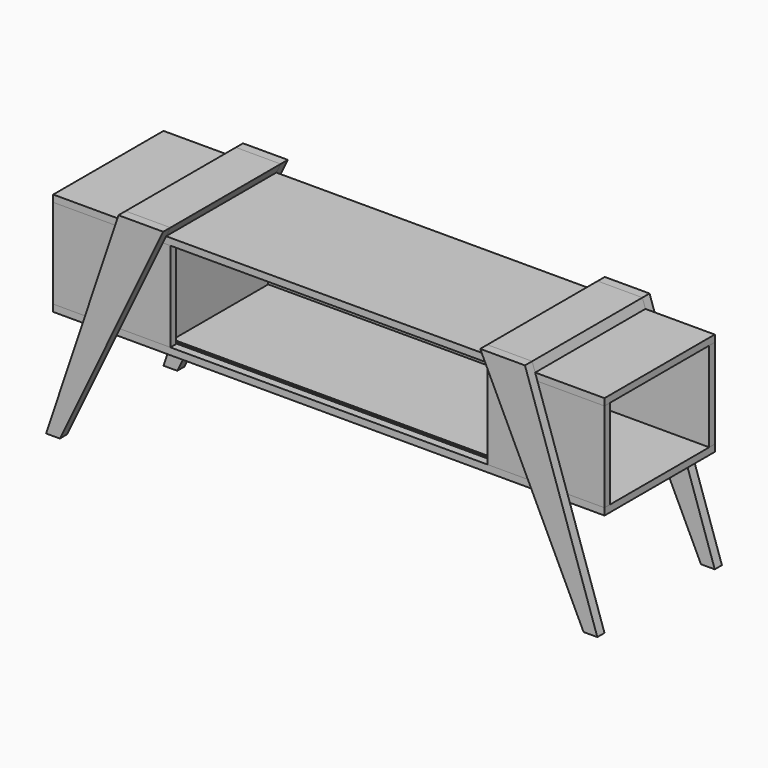
from build123d import *

# Parameters (mm, degrees)
F5_W           = 1600
F5_H           = 20
F6_DEPTH       = 200
F7_W           = 20
F7_H           = 260
F8_DEPTH       = 800
F9_W           = 20
F9_H           = 260
F10_DEPTH      = 180
F12_W          = 20
F12_H          = 260
F13_DEPTH      = 20
F13_DEPTH_BACK = 320
F15_W          = 1000
F15_H          = 4
F16_DEPTH      = 3
F18_DEPTH      = 26
F23_DEPTH      = 400


with BuildPart() as f6:
    # F5 (on Front) → F6 (new body, symmetric)
    with BuildSketch(Plane.XZ):
        with Locations((0, 590)):
            Rectangle(F5_W, F5_H)
    extrude(amount=F6_DEPTH, both=True)


with BuildPart() as f6b:
    # F5 (on Front) → F6, piece 2 (new body, symmetric)
    with BuildSketch(Plane.XZ):
        with Locations((0, 310)):
            Rectangle(F5_W, F5_H)
    extrude(amount=F6_DEPTH, both=True)

    # F15 (on face) → F16 (cut)
    with BuildSketch(Plane.XY.offset(320)):
        with Locations((0, -175)):
            Rectangle(F15_W, F15_H)
        with Locations((0, -168)):
            Rectangle(F15_W, F15_H)
    extrude(amount=-F16_DEPTH, mode=Mode.SUBTRACT)


with BuildPart() as f8:
    # F7 (on Right) → F8 (new body, symmetric)
    with BuildSketch(Plane.YZ):
        with Locations((190, 450)):
            Rectangle(F7_W, F7_H)
    extrude(amount=F8_DEPTH, both=True)


with BuildPart() as f10:
    # F9 (on Front) → F10 (new body, symmetric)
    with BuildSketch(Plane.XZ):
        with Locations((-490, 450)):
            Rectangle(F9_W, F9_H)
    extrude(amount=F10_DEPTH, both=True)


with BuildPart() as f11_1:
    # F11: instance of F10
    add(f10.part.mirror(Plane.YZ))


with BuildPart() as f13:
    # F12 (on face) → F13 (new body, two sides)
    with BuildSketch(Plane.YZ.offset(-480)) as f13_sk:
        with Locations((-190, 450)):
            Rectangle(F12_W, F12_H)
    extrude(amount=F13_DEPTH)
    extrude(f13_sk.sketch, amount=-F13_DEPTH_BACK)


with BuildPart() as f14_1:
    # F14: instance of F13
    add(f13.part.mirror(Plane.YZ))


with BuildPart() as f18:
    # F17 (on face) → F18 (new body)
    with BuildSketch(Plane.XZ.offset(200)):
        Polygon((-590, 626), (-800, 0), (-760, 0), (-460, 626), align=None)
    extrude(amount=F18_DEPTH)


with BuildPart() as f19_1:
    # F19: instance of F18
    add(f18.part.mirror(Plane.YZ))


with BuildPart() as f20_1:
    # F20: instance of F18
    add(f18.part.mirror(Plane.XZ))


with BuildPart() as f21_1:
    # F21: instance of F19_1
    add(f19_1.part.mirror(Plane.XZ))


with BuildPart() as f23:
    # F22 (on face) → F23 (new body, through all)
    with BuildSketch(Plane.XZ.offset(-200)):
        Polygon((-590, 626), (-598.7220447285, 600), (-472.4600638978, 600), (-460, 626), align=None)
    extrude(amount=F23_DEPTH)


with BuildPart() as f24_1:
    # F24: instance of F23
    add(f23.part.mirror(Plane.YZ))


solid = Compound([f6.part, f6b.part, f8.part, f10.part, f11_1.part, f13.part, f14_1.part, f18.part, f19_1.part, f20_1.part, f21_1.part, f23.part, f24_1.part])
